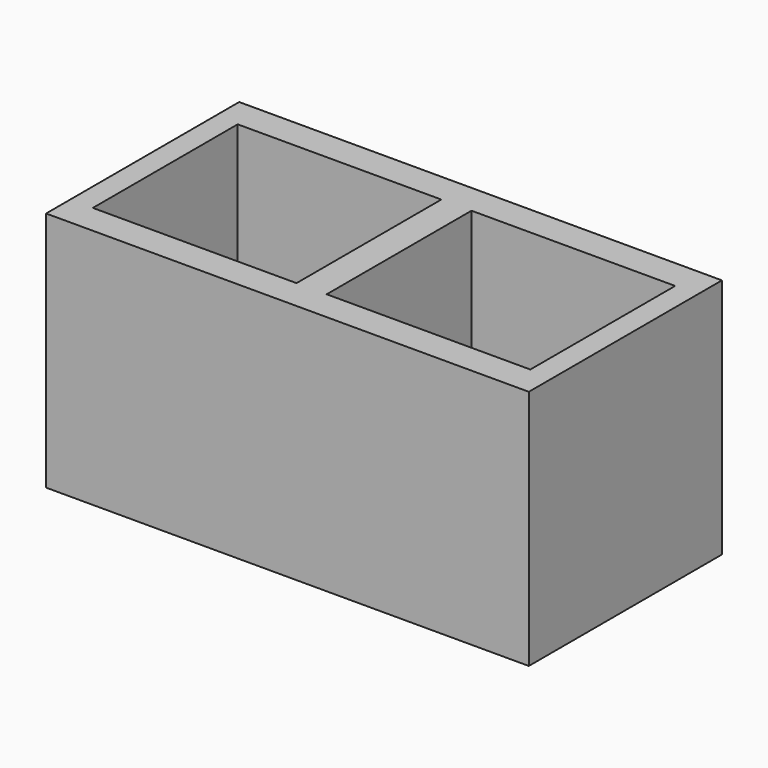
from build123d import *

# Parameters (mm, degrees)
F0_W     = 406.4
F0_H     = 203.2
F1_DEPTH = 203.2
F2_W     = 171.45
F2_H     = 152.4
F3_DEPTH = 203.201


with BuildPart() as f1:
    # F0 (on Front) → F1 (new body)
    with BuildSketch(Plane.XZ):
        with Locations((-203.2, -101.6)):
            Rectangle(F0_W, F0_H)
    extrude(amount=F1_DEPTH)

    # F2 (on face) → F3 (cut, through all)
    with BuildSketch(Plane.XY):
        with Locations((-301.625, -101.6)):
            Rectangle(F2_W, F2_H)
        with Locations((-104.775, -101.6)):
            Rectangle(F2_W, F2_H)
    extrude(amount=-F3_DEPTH, mode=Mode.SUBTRACT)


solid = f1.part
